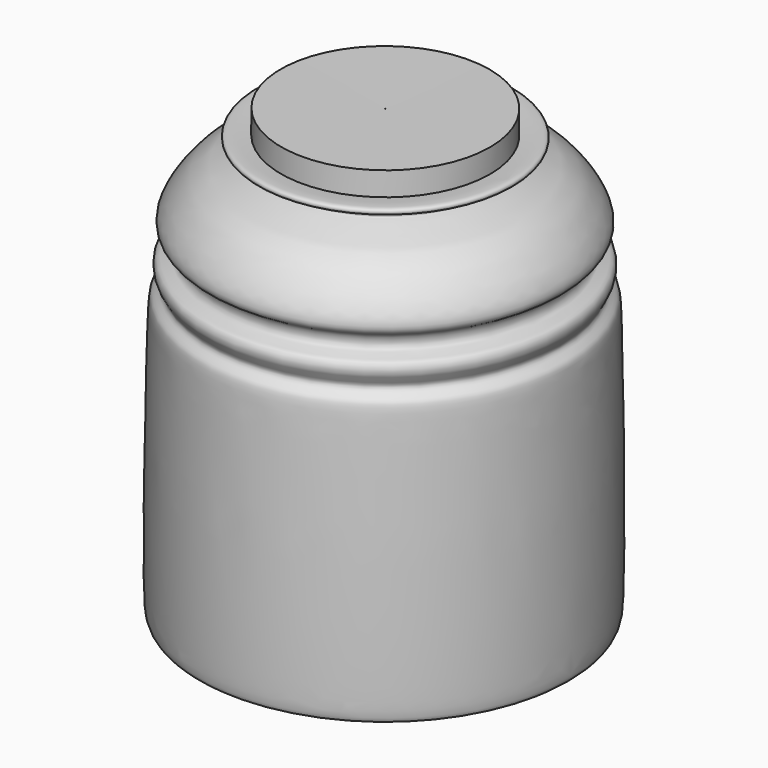
from build123d import *


with BuildPart() as f1:
    # F0 (on Front) → F1 (revolve)
    with BuildSketch(Plane.XZ):
        with BuildLine():
            Line((14.0513433143, 58.5637787978), (0, 58.5637787978))
            add(Edge.make_bspline(
                [(-0.0569274844, 52.9667370899), (-0.0381711226, 54.8124967865), (-0.0191158942, 56.6796507547), (0, 58.5637787978)],
                knots=[0.9884300228, 0.9884300228, 0.9884300228, 0.9884300228, 1, 1, 1, 1], degree=3))
            Line((-0.0569274844, 52.9667370899), (-0.2368087972, 5.0663342712))
            add(Edge.make_bspline(
                [(14.0513433143, 55.3677864373), (15.6654391685, 55.5166167618), (17.2527733649, 55.8271646265), (17.1284212375, 54.3876985025), (14.2987566542, 54.8684673705), (14.5648195699, 53.745398055), (14.322358574, 53.0989525707), (15.4440687719, 53.0002344872), (17.0941725349, 52.0723839924), (20.3830206223, 51.4211242052), (24.5577613111, 45.7399440451), (23.5761150099, 43.8750264574), (22.0119040759, 43.4960670206), (21.8301252025, 41.0813037778), (24.318948031, 41.3017701198), (24.3282240876, 39.1186529188), (22.933592561, 37.7409942645), (24.5858554103, 36.6146632971), (24.9103579547, 34.8101985994), (25.2856697664, -0.5736556806), (24.3580341122, -2.0106558221), (0.693615682, -2.4262071463), (-0.0298661058, -0.7075869884), (-0.1844839291, 2.7523334032), (-0.2368087972, 5.0663342712)],
                knots=[0, 0, 0, 0, 0.0397312978, 0.0574519008, 0.0920157361, 0.1118401401, 0.1283653963, 0.1494209798, 0.180461694, 0.222911247, 0.2813303612, 0.3099934562, 0.337287641, 0.3667157236, 0.397256261, 0.4267576724, 0.455962517, 0.4819697786, 0.5159610402, 0.65060289, 0.6835709043, 0.7912954228, 0.8248430927, 0.858158685, 0.858158685, 0.858158685, 0.858158685], degree=3))
            add(Edge.make_bspline(
                [(14.0513433143, 58.5637787978), (14.0513433143, 55.3677864373), (14.0513433143, 58.5637787978), (14.0513433143, 55.3677864373)],
                knots=[0, 0, 0, 0, 3.1959923605, 3.1959923605, 3.1959923605, 3.1959923605], degree=3))
        make_face()
    revolve(axis=Axis((-0.1446969531, 0, 29.5946989208), (-0.0037552929, 0, -0.9999929489)))


solid = f1.part
